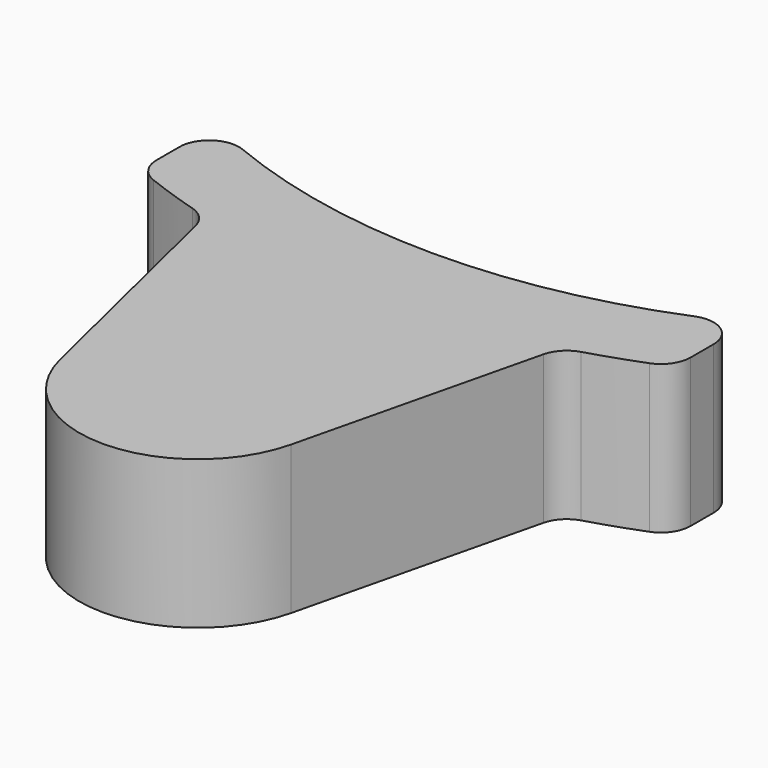
from build123d import *

# Parameters (mm, degrees)
PAD_DEPTH = 5
FILLET_R  = 1


with BuildPart() as part:
    # Sketch → Pad (new body)
    with BuildSketch(Plane.XY):
        with BuildLine():
            ThreePointArc((-9, -17.972479), (0, -20.1), (9, -17.972479))
            Line((9, -21.16601), (9, -17.972479))
            ThreePointArc((6, -22.203603), (7.517922, -21.736625), (9, -21.16601))
            Line((6, -22.203603), (3.888006, -30.939897))
            ThreePointArc((-3.888006, -30.939897), (0, -34), (3.888006, -30.939897))
            Line((-6, -22.203603), (-3.888006, -30.939897))
            ThreePointArc((-9, -21.16601), (-7.517922, -21.736625), (-6, -22.203603))
            Line((-9, -21.16601), (-9, -17.972479))
        make_face()
    extrude(amount=PAD_DEPTH)

    # Fillet
    fillet_edges = [part.edges().sort_by_distance(p)[0] for p in [
        (9, -17.972479, 2.5),
        (9, -21.16601, 2.5),
        (-9, -21.16601, 2.5),
        (-6, -22.203603, 2.5),
        (-9, -17.972479, 2.5),
        (6, -22.203603, 2.5),
    ]]
    fillet(fillet_edges, radius=FILLET_R)


solid = part.part
